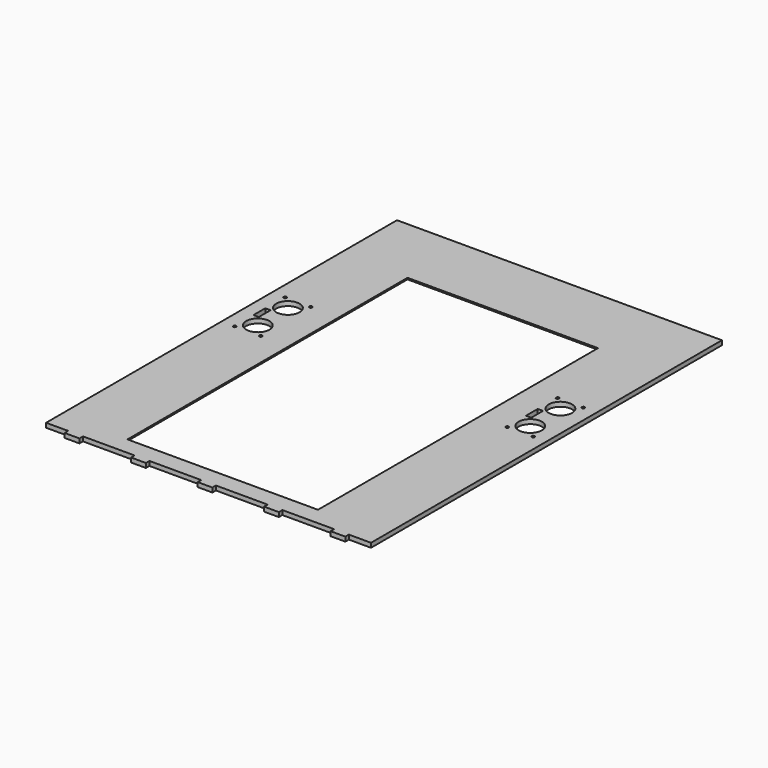
from build123d import *

# Parameters (mm, degrees)
SKETCH_W        = 220
SKETCH_H        = 300
SKETCH_W_2      = 129
SKETCH_H_2      = 237
PAD_DEPTH       = 3
SKETCH001_W     = 143
SKETCH001_H     = 245
SKETCH001_W_2   = 129
SKETCH001_H_2   = 237
POCKET_DEPTH    = 2
SKETCH002_R     = 7.9
SKETCH002_R_2   = 1
SKETCH002_W     = 3.6
SKETCH002_H     = 10
SKETCH002_W_2   = 35
SKETCH002_H_2   = 3
SKETCH002_W_3   = 15
POCKET001_DEPTH = 3.001
SKETCH003_R     = 3.6
SKETCH003_R_2   = 1
POCKET002_DEPTH = 5


with BuildPart() as part:
    # Sketch → Pad (new body)
    with BuildSketch(Plane.XY):
        with Locations((110, 150)):
            Rectangle(SKETCH_W, SKETCH_H)
        with Locations((110, 133.5)):
            Rectangle(SKETCH_W_2, SKETCH_H_2, mode=Mode.SUBTRACT)
    extrude(amount=PAD_DEPTH)

    # Sketch001 (on Face9 of Pad) → Pocket (cut)
    with BuildSketch(Plane(origin=(0, 0, 0), x_dir=(1, 0, 0), z_dir=(0, 0, -1))):
        with Locations((113, -134.5)):
            Rectangle(SKETCH001_W, SKETCH001_H)
        with Locations((110, -133.5)):
            Rectangle(SKETCH001_W_2, SKETCH001_H_2, mode=Mode.SUBTRACT)
    extrude(amount=-POCKET_DEPTH, mode=Mode.SUBTRACT)

    # Sketch002 (on Face5 of Pocket) → Pocket001 (cut, through all)
    with BuildSketch(Plane.XY.offset(3)):
        with Locations((17.75, 185.5)):
            Circle(SKETCH002_R)
        with Locations((17.75, 160)):
            Circle(SKETCH002_R)
        with Locations((9, 151.5)):
            Circle(SKETCH002_R_2)
        with Locations((26.5, 151.5)):
            Circle(SKETCH002_R_2)
        with Locations((9, 194)):
            Circle(SKETCH002_R_2)
        with Locations((26.5, 194)):
            Circle(SKETCH002_R_2)
        with Locations((202.25, 185.5)):
            Circle(SKETCH002_R)
        with Locations((202.25, 160)):
            Circle(SKETCH002_R)
        with Locations((193.5, 151.5)):
            Circle(SKETCH002_R_2)
        with Locations((211, 151.5)):
            Circle(SKETCH002_R_2)
        with Locations((193.5, 194)):
            Circle(SKETCH002_R_2)
        with Locations((211, 194)):
            Circle(SKETCH002_R_2)
        with Locations((10.4, 172.75)):
            Rectangle(SKETCH002_W, SKETCH002_H)
        with Locations((194.9, 172.75)):
            Rectangle(SKETCH002_W, SKETCH002_H)
        with Locations((42.5, 1.5)):
            Rectangle(SKETCH002_W_2, SKETCH002_H_2)
        with Locations((87.5, 1.5)):
            Rectangle(SKETCH002_W_2, SKETCH002_H_2)
        with Locations((132.5, 1.5)):
            Rectangle(SKETCH002_W_2, SKETCH002_H_2)
        with Locations((177.5, 1.5)):
            Rectangle(SKETCH002_W_2, SKETCH002_H_2)
        with Locations((7.5, 1.5)):
            Rectangle(SKETCH002_W_3, SKETCH002_H_2)
        with Locations((212.5, 1.5)):
            Rectangle(SKETCH002_W_3, SKETCH002_H_2)
    extrude(amount=-POCKET001_DEPTH, mode=Mode.SUBTRACT)

    # Sketch003 (on Face5 of Pocket001) → Pocket002 (cut)
    with BuildSketch(Plane(origin=(15, 0, 0), x_dir=(0, -1, 0), z_dir=(-1, 0, 0))):
        with Locations((110, 272)):
            Circle(SKETCH003_R)
        with Locations((110, 261.5)):
            Circle(SKETCH003_R_2)
        with Locations((110, 282.5)):
            Circle(SKETCH003_R_2)
        with Locations((122.5, 261.5)):
            Circle(SKETCH003_R_2)
        with Locations((122.5, 282.5)):
            Circle(SKETCH003_R_2)
    extrude(amount=-POCKET002_DEPTH, mode=Mode.SUBTRACT)


solid = part.part
